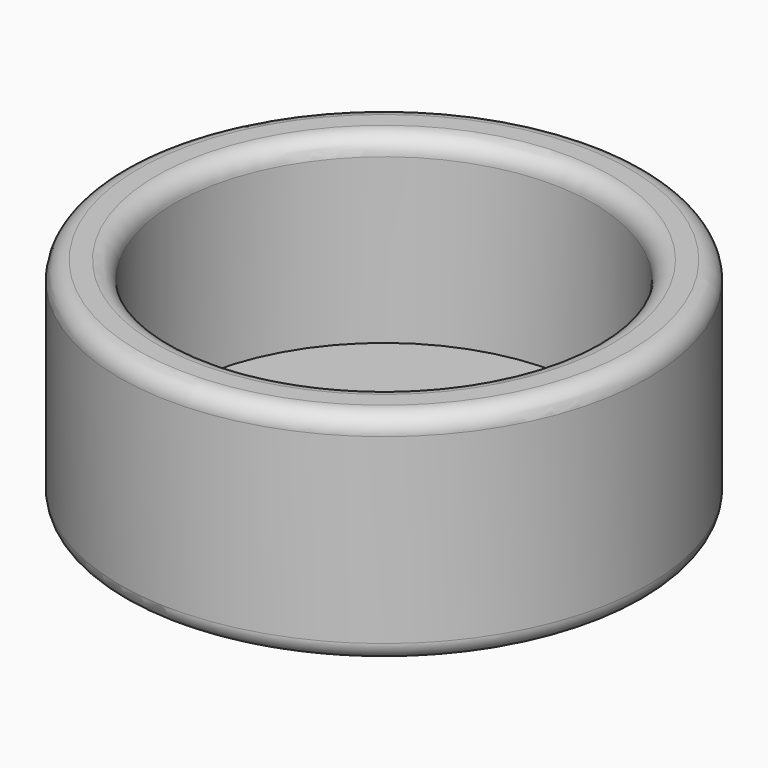
from build123d import *

# Parameters (mm, degrees)
F0_R     = 14.5
F0_R_2   = 11.5
F1_DEPTH = 10
F2_R     = 14.5
F3_DEPTH = 2
F4_R     = 1


with BuildPart() as f1:
    # F0 (on Top) → F1 (new body)
    with BuildSketch(Plane.XY):
        Circle(F0_R)
        Circle(F0_R_2, mode=Mode.SUBTRACT)
    extrude(amount=F1_DEPTH)

    # F2 (on face) → F3 (join)
    with BuildSketch(Plane(origin=(0, 0, 0), x_dir=(1, 0, 0), z_dir=(0, 0, -1))):
        Circle(F2_R)
    extrude(amount=F3_DEPTH)

    # F4
    f4_edges = [f1.edges().sort_by_distance(p)[0] for p in [
        (-14.5, 0, 10),
        (-11.5, 0, 10),
        (-14.5, 0, -2),
    ]]
    fillet(f4_edges, radius=F4_R)


solid = f1.part
